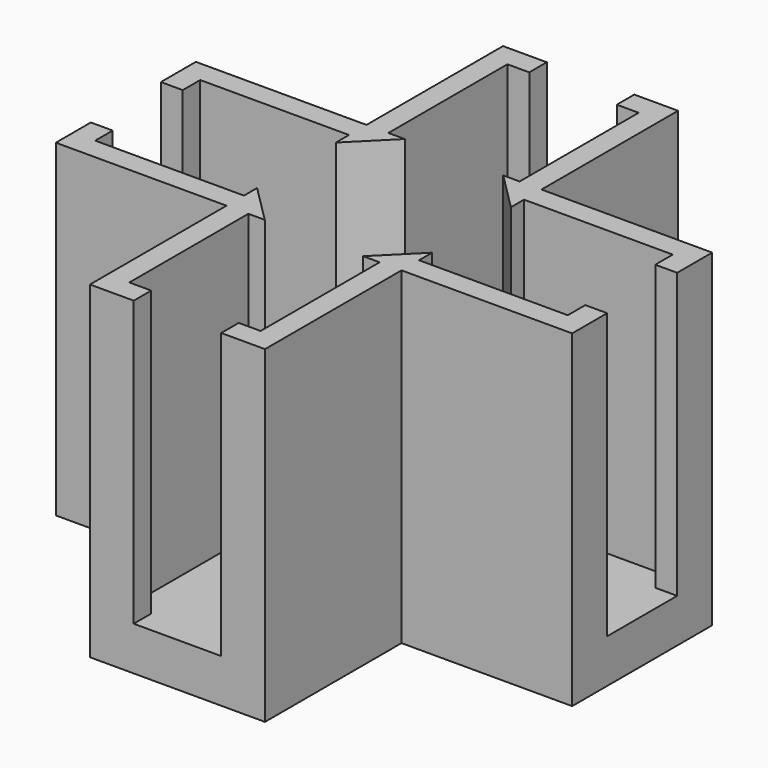
from build123d import *

# Parameters (mm, degrees)
PAD052_DEPTH          = 15
BOX006_W              = 4
BOX006_H              = 15
BOX006_DEPTH          = 12
POLARPATTERN021_COUNT = 4
PAD053_DEPTH          = 2
CYLINDER079_R         = 1.75
CYLINDER079_DEPTH     = 5


with BuildPart() as part:
    # Sketch087 → Pad052 (new body)
    with BuildSketch(Plane.XY):
        Polygon((-11.8, 4), (-4, 4), (-4, 11.8), (4, 11.8), (4, 4), (11.8, 4), (11.8, -4), (4, -4), (4, -11.8), (-4, -11.8), (-4, -4), (-11.8, -4), align=None)
        Polygon((-3, 10.8), (3, 10.8), (3, 4), (2.25, 4), (4, 2.25), (4, 3), (10.8, 3), (10.8, -3), (4, -3), (4, -2.25), (2.25, -4), (3, -4), (3, -10.8), (-3, -10.8), (-3, -4), (-2.25, -4), (-4, -2.25), (-4, -3), (-10.8, -3), (-10.8, 3), (-4, 3), (-4, 2.25), (-2.25, 4), (-3, 4), align=None, mode=Mode.SUBTRACT)
    extrude(amount=PAD052_DEPTH)

    # Box006 → Box006 (cut)
    with BuildSketch(Plane(origin=(-2, 0, 2), x_dir=(1, 0, 0), z_dir=(0, -1, 0))):
        with Locations((2, 7.5)):
            Rectangle(BOX006_W, BOX006_H)
    box006 = extrude(amount=BOX006_DEPTH, mode=Mode.SUBTRACT)

    # PolarPattern021: Box006 ×4 about axis
    polarpattern021_axis = Axis((0, 0, 0), (0, 0, 1))
    for i in range(1, POLARPATTERN021_COUNT):
        add(box006.rotate(polarpattern021_axis, i * 360 / POLARPATTERN021_COUNT), mode=Mode.SUBTRACT)

    # Sketch088 → Pad053 (join)
    with BuildSketch(Plane.XY):
        Polygon((-4, 11.8), (-4, 4), (-11.8, 4), (-11.8, -4), (-4, -4), (-4, -11.8), (4, -11.8), (4, -4), (11.8, -4), (11.8, 4), (4, 4), (4, 11.8), align=None)
    extrude(amount=PAD053_DEPTH)

    # Sphere003 → Sphere003 (revolve)
    with BuildSketch(Plane(origin=(0, 0, 0), x_dir=(-1, 0, 0), z_dir=(0, -1, 0))):
        with BuildLine():
            ThreePointArc((0, -4.5), (3.181981, -3.181981), (4.5, 0))
            Line((4.5, 0), (0, 0))
            Line((0, 0), (0, -4.5))
        make_face()
    revolve(axis=Axis((0, 0, 0), (0, 0, -1)))

    # Cylinder079 → Cylinder079 (cut)
    with BuildSketch(Plane.XY):
        Circle(CYLINDER079_R)
    extrude(amount=CYLINDER079_DEPTH, mode=Mode.SUBTRACT)

    # Sphere002 → Sphere002 (revolve, cut)
    with BuildSketch(Plane.XZ):
        with BuildLine():
            ThreePointArc((0, -3.5), (3.5, 0), (0, 3.5))
            Line((0, 3.5), (0, -3.5))
        make_face()
    revolve(axis=Axis((0, 0, 0), (0, 0, 1)), mode=Mode.SUBTRACT)


solid = part.part
